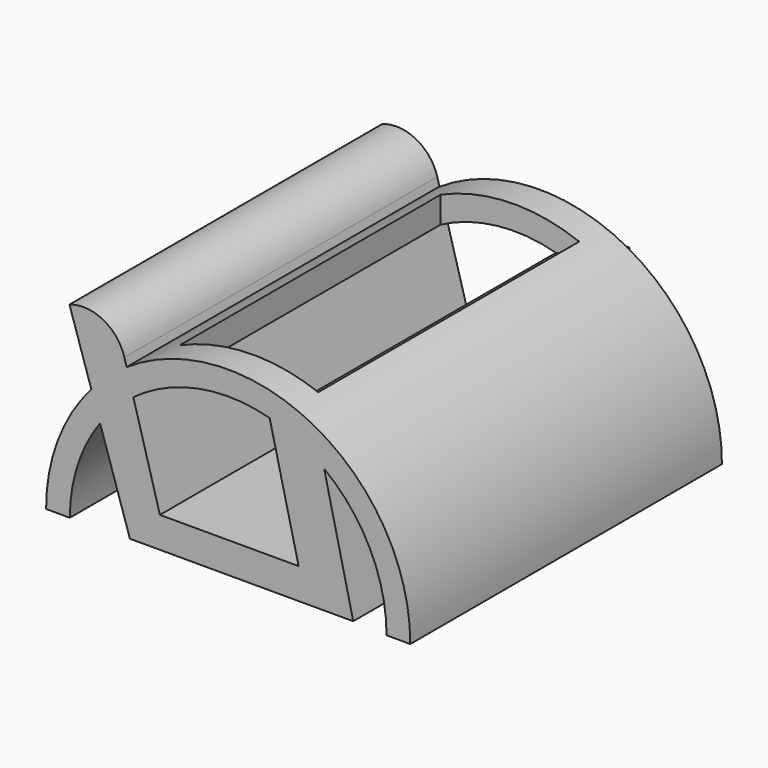
from build123d import *

# Parameters (mm, degrees)
F1_DEPTH = 624.84
F3_W     = 222.237472
F3_H     = 523.24
F4_DEPTH = 99.06
F5_DEPTH = 627.38


with BuildPart() as f1:
    # F0 (on Front) → F1 (new body)
    with BuildSketch(Plane.XZ):
        with BuildLine():
            Line((363.537534, -301.646389), (401.637534, -301.646389))
            ThreePointArc((401.637534, -301.646389), (109.905185, -8.813365), (-182.561408, -300.913066))
            Line((-182.561408, -300.913066), (-144.461408, -300.913066))
            ThreePointArc((-144.461408, -300.913066), (109.905254, -46.913399), (363.537534, -301.646389))
        make_face()
    extrude(amount=F1_DEPTH)

    # F3 (on Top) → F4 (cut)
    with BuildSketch(Plane.XY):
        with Locations((102.249414, -312.42)):
            Rectangle(F3_W, F3_H)
    extrude(amount=-F4_DEPTH, mode=Mode.SUBTRACT)

    # F2 (on face) → F5 (join)
    with BuildSketch(Plane.XZ.offset(624.84)):
        with BuildLine():
            Line((176.094062, -55.787923), (222.495884, -249.826312))
            Line((222.495884, -249.826312), (0, -249.826312))
            Line((0, -249.826312), (-56.975495, -45.947485))
            ThreePointArc((-56.975495, -45.947485), (-91.072153, -3.893234), (-145.072013, 0))
            Line((-145.072013, 0), (-48.143223, -299.213022))
            Line((-48.143223, -299.213022), (310.081872, -299.213022))
            Line((310.081872, -299.213022), (251.000916, -45.353364))
            Line((251.000916, -45.353364), (176.094062, -55.787923))
        make_face()
    extrude(amount=-F5_DEPTH)


solid = f1.part
